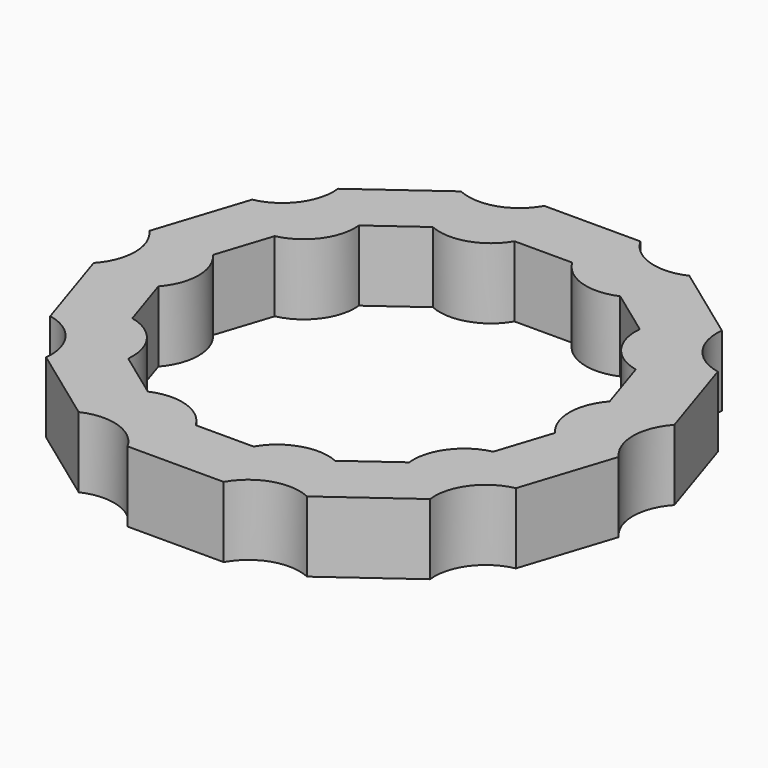
from build123d import *

# Parameters (mm, degrees)
PAD001_DEPTH = 2


with BuildPart() as part:
    # CopySketch002 → Pad001 (new body)
    with BuildSketch(Plane.XY):
        with BuildLine():
            ThreePointArc((1.361587, 7.37537), (2.17857, 6.704948), (3.233587, 6.76712))
            Line((3.233587, 6.76712), (5.43668, 5.166479))
            ThreePointArc((5.43668, 5.166479), (5.70357, 4.143886), (6.59364, 3.574061))
            Line((6.59364, 3.574061), (7.435147, 0.984169))
            ThreePointArc((7.435147, 0.984169), (7.05, 0), (7.435147, -0.984169))
            Line((7.435147, -0.984169), (6.59364, -3.574061))
            ThreePointArc((6.59364, -3.574061), (5.70357, -4.143886), (5.43668, -5.166479))
            Line((3.233587, -6.76712), (5.43668, -5.166479))
            ThreePointArc((3.233587, -6.76712), (2.17857, -6.704948), (1.361587, -7.37537))
            Line((-1.361587, -7.37537), (1.361587, -7.37537))
            ThreePointArc((-1.361587, -7.37537), (-2.17857, -6.704948), (-3.233587, -6.76712))
            Line((-5.43668, -5.166479), (-3.233587, -6.76712))
            ThreePointArc((-5.43668, -5.166479), (-5.70357, -4.143886), (-6.59364, -3.574061))
            Line((-7.435147, -0.984169), (-6.59364, -3.574061))
            ThreePointArc((-7.435147, -0.984169), (-7.05, 0), (-7.435147, 0.984169))
            Line((-6.59364, 3.574061), (-7.435147, 0.984169))
            ThreePointArc((-6.59364, 3.574061), (-5.70357, 4.143886), (-5.43668, 5.166479))
            Line((-5.43668, 5.166479), (-3.233587, 6.76712))
            ThreePointArc((-3.233587, 6.76712), (-2.17857, 6.704948), (-1.361587, 7.37537))
            Line((-1.361587, 7.37537), (1.361587, 7.37537))
        make_face()
        with BuildLine():
            Line((5.617724, -0.964976), (5.112033, -2.521333))
            ThreePointArc((5.112033, -2.521333), (4.247339, -3.085873), (3.977636, -4.082697))
            Line((3.977636, -4.082697), (2.653719, -5.044579))
            ThreePointArc((2.653719, -5.044579), (1.622339, -4.993047), (0.818226, -5.640967))
            Line((0.818226, -5.640967), (-0.818226, -5.640967))
            ThreePointArc((-0.818226, -5.640967), (-1.622339, -4.993047), (-2.653719, -5.044579))
            Line((-2.653719, -5.044579), (-3.977636, -4.082697))
            ThreePointArc((-3.977636, -4.082697), (-4.247339, -3.085873), (-5.112033, -2.521333))
            Line((-5.112033, -2.521333), (-5.617724, -0.964976))
            ThreePointArc((-5.617724, -0.964976), (-5.25, 0), (-5.617724, 0.964976))
            Line((-5.617724, 0.964976), (-5.112033, 2.521333))
            ThreePointArc((-5.112033, 2.521333), (-4.247339, 3.085873), (-3.977636, 4.082697))
            Line((-3.977636, 4.082697), (-2.653719, 5.044579))
            ThreePointArc((-2.653719, 5.044579), (-1.622339, 4.993047), (-0.818226, 5.640967))
            Line((-0.818226, 5.640967), (0.818226, 5.640967))
            ThreePointArc((0.818226, 5.640967), (1.622339, 4.993047), (2.653719, 5.044579))
            Line((2.653719, 5.044579), (3.977636, 4.082697))
            ThreePointArc((3.977636, 4.082697), (4.247339, 3.085873), (5.112033, 2.521333))
            Line((5.112033, 2.521333), (5.617724, 0.964976))
            ThreePointArc((5.617724, 0.964976), (5.25, 0), (5.617724, -0.964976))
        make_face(mode=Mode.SUBTRACT)
    extrude(amount=PAD001_DEPTH)


solid = part.part
